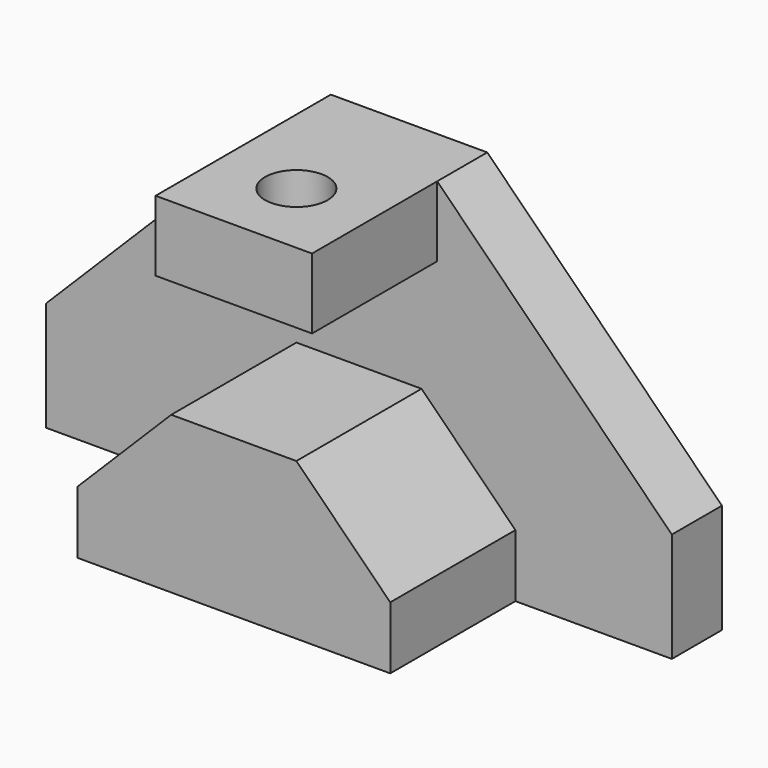
from build123d import *

# Parameters (mm, degrees)
F0_W     = 127
F0_H     = 69.85
F1_DEPTH = 12.7
F2_SIZE  = 47.625
F3_W     = 31.75
F3_H     = 14.2875
F3_W_2   = 63.5
F3_H_2   = 31.75
F4_DEPTH = 31.75
F5_SIZE  = 19.05
F6_R     = 6.35
F7_DEPTH = 14.2875


with BuildPart() as f1:
    # F0 (on Front) → F1 (new body)
    with BuildSketch(Plane.XZ):
        with Locations((63.5, 34.925)):
            Rectangle(F0_W, F0_H)
    extrude(amount=F1_DEPTH)

    # F2
    f2_edges = [f1.edges().sort_by_distance(p)[0] for p in [
        (0, -6.35, 69.85),
        (127, -6.35, 69.85),
    ]]
    chamfer(f2_edges, length=F2_SIZE)

    # F3 (on face) → F4 (join)
    with BuildSketch(Plane.XZ.offset(12.7)):
        with Locations((63.5, 62.70625)):
            Rectangle(F3_W, F3_H)
        with Locations((63.5, 15.875)):
            Rectangle(F3_W_2, F3_H_2)
    extrude(amount=F4_DEPTH)

    # F5
    f5_edges = [f1.edges().sort_by_distance(p)[0] for p in [
        (31.75, -28.575, 31.75),
        (95.25, -28.575, 31.75),
    ]]
    chamfer(f5_edges, length=F5_SIZE)

    # F6 (on face) → F7 (cut)
    with BuildSketch(Plane.XY.offset(69.85)):
        with Locations((63.5, -28.575)):
            Circle(F6_R)
    extrude(amount=-F7_DEPTH, mode=Mode.SUBTRACT)


solid = f1.part
